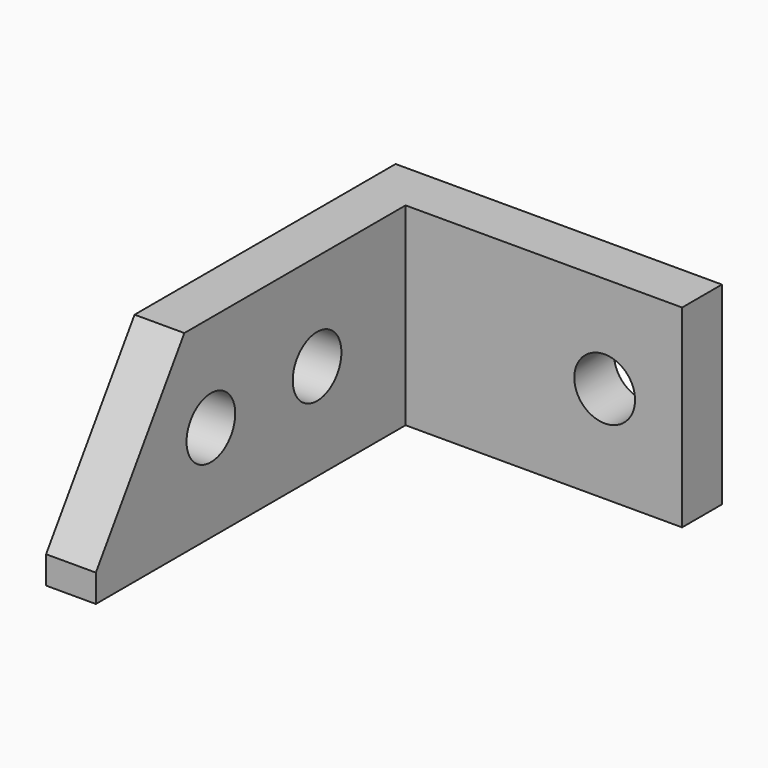
from build123d import *

# Parameters (mm, degrees)
F1_DEPTH = 17.5
F3_D     = 5.5
F4_SIZE2 = 10
F4_SIZE  = 15
F6_D     = 5.5


with BuildPart() as f1:
    # F0 (on Top) → F1 (new body)
    with BuildSketch(Plane.XY):
        Polygon((29.5, 0), (0, 0), (0, -39.5), (4.5, -39.5), (4.5, -4.5), (29.5, -4.5), align=None)
    extrude(amount=F1_DEPTH)

    # F3 (through all)
    with Locations(Plane.XZ.offset(4.5)):
        with Locations((22.5, 8.75)):
            Hole(F3_D / 2)

    # F4
    f4_edges = [f1.edges().sort_by_distance(p)[0] for p in [
        (2.25, -39.5, 17.5),
    ]]
    f4_side = f1.faces().sort_by_distance((2.25, -39.5, 8.75))[0]
    chamfer(f4_edges, length=F4_SIZE, length2=F4_SIZE2, reference=f4_side)

    # F6 (through all)
    with Locations(Plane.YZ.offset(4.5)):
        with Locations((-14.5, 8.75), (-26.5, 8.75)):
            Hole(F6_D / 2)


solid = f1.part
